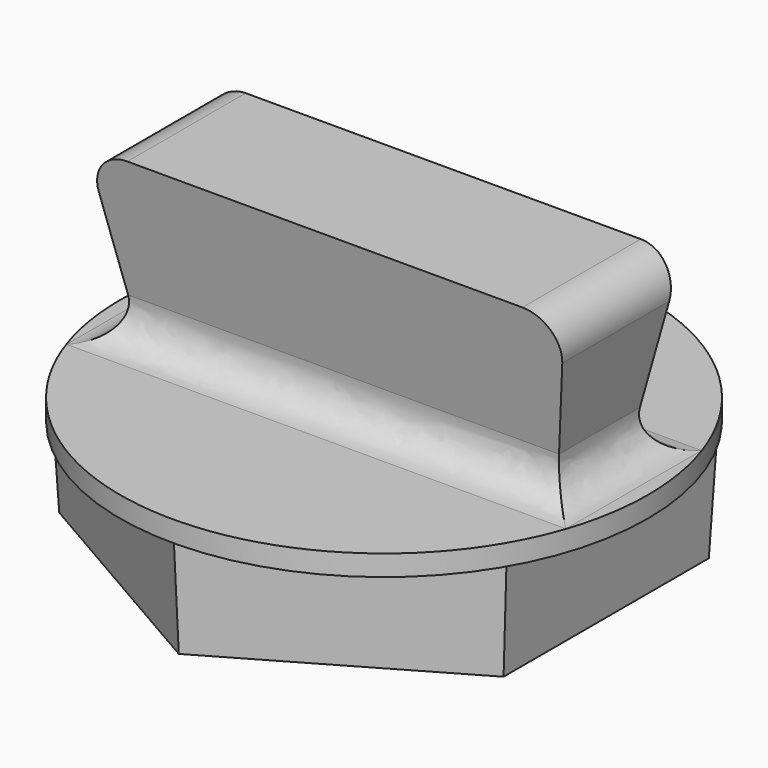
from build123d import *

# Parameters (mm, degrees)
F1_DEPTH = 8.89
F1_TAPER = -3
F2_R     = 19.3087928885
F3_DEPTH = 1.524
F4_W     = 30.48
F4_H     = 6.35
F5_DEPTH = 12.7
F5_TAPER = -10
F6_R     = 2.54


with BuildPart() as f1:
    # F0 (on Top) → F1 (new body)
    with BuildSketch(Plane.XY):
        Polygon((16.256, -9.3854059759), (16.256, 9.3854059759), (0, 18.7708119519), (-16.256, 9.3854059759), (-16.256, -9.3854059759), (0, -18.7708119519), align=None)
    extrude(amount=F1_DEPTH, taper=F1_TAPER)

    # F2 (on face) → F3 (join)
    with BuildSketch(Plane.XY.offset(8.89)):
        Circle(F2_R)
    extrude(amount=-F3_DEPTH)

    # F4 (on face) → F5 (join)
    with BuildSketch(Plane.XY.offset(8.89)):
        Rectangle(F4_W, F4_H)
    extrude(amount=F5_DEPTH, taper=F5_TAPER)

    # F6
    f6_edges = [f1.edges().sort_by_distance(p)[0] for p in [
        (0, 3.175, 8.89),
        (-15.24, 0, 8.89),
        (0, -3.175, 8.89),
        (15.24, 0, 8.89),
        (-17.479353, 0, 21.59),
        (17.479353, 0, 21.59),
    ]]
    fillet(f6_edges, radius=F6_R)


solid = f1.part
